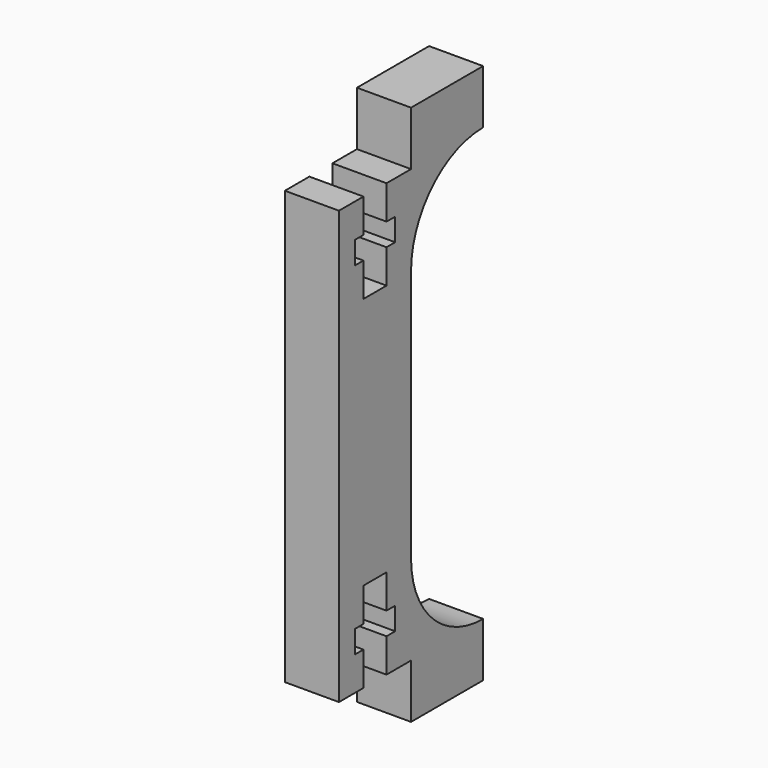
from build123d import *

# Parameters (mm, degrees)
F1_DEPTH = 6


with BuildPart() as f1:
    # F0 (on Right) → F1 (new body)
    with BuildSketch(Plane.YZ):
        with BuildLine():
            Line((3.4, 48), (0, 48))
            Line((0, 48), (0, 0))
            Line((0, 0), (3.4, 0))
            Line((3.4, 0), (3.4, 3.75))
            Line((3.4, 3.75), (2.2, 3.75))
            Line((2.2, 3.75), (2.2, 6.25))
            Line((2.2, 6.25), (3.4, 6.25))
            Line((3.4, 6.25), (3.4, 10))
            Line((3.4, 10), (5, 10))
            Line((5, 10), (6.6, 10))
            Line((6.6, 10), (6.6, 6.25))
            Line((6.6, 6.25), (7.8, 6.25))
            Line((7.8, 6.25), (7.8, 3.75))
            Line((7.8, 3.75), (6.6, 3.75))
            Line((6.6, 3.75), (6.6, 0))
            Line((6.6, 0), (10, 0))
            Line((10, 0), (10, -6))
            Line((10, -6), (20, -6))
            Line((20, -6), (20, 0))
            ThreePointArc((20, 0), (12.928932, 2.928932), (10, 10))
            Line((10, 10), (10, 38))
            ThreePointArc((10, 38), (12.928932, 45.071068), (20, 48))
            Line((20, 48), (20, 54))
            Line((20, 54), (10, 54))
            Line((10, 54), (10, 48))
            Line((10, 48), (6.6, 48))
            Line((6.6, 48), (6.6, 44.25))
            Line((6.6, 44.25), (7.8, 44.25))
            Line((7.8, 44.25), (7.8, 41.75))
            Line((7.8, 41.75), (6.6, 41.75))
            Line((6.6, 41.75), (6.6, 38))
            Line((6.6, 38), (5, 38))
            Line((5, 38), (3.4, 38))
            Line((3.4, 38), (3.4, 41.75))
            Line((3.4, 41.75), (2.2, 41.75))
            Line((2.2, 41.75), (2.2, 44.25))
            Line((2.2, 44.25), (3.4, 44.25))
            Line((3.4, 44.25), (3.4, 48))
        make_face()
    extrude(amount=F1_DEPTH)


solid = f1.part
